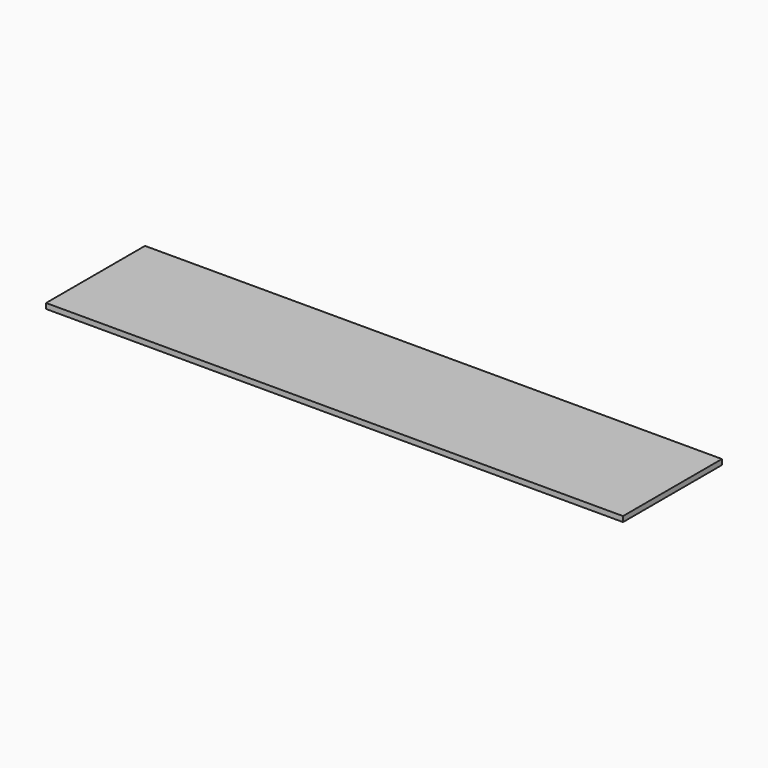
from build123d import *

# Parameters (mm, degrees)
F0_W     = 3.175
F0_H     = 147.6375
F0_W_2   = 682.625
F1_DEPTH = 6.35


with BuildPart() as f1:
    # F0 (on Top) → F1 (new body)
    with BuildSketch(Plane.XY):
        with Locations((-804.4915875286, 1481.3912059128)):
            Rectangle(F0_W, F0_H)
        with Locations((-118.6915875286, 1481.3912059128)):
            Rectangle(F0_W, F0_H)
        with Locations((-461.5915875286, 1481.3912059128)):
            Rectangle(F0_W_2, F0_H)
    extrude(amount=F1_DEPTH)


solid = f1.part
